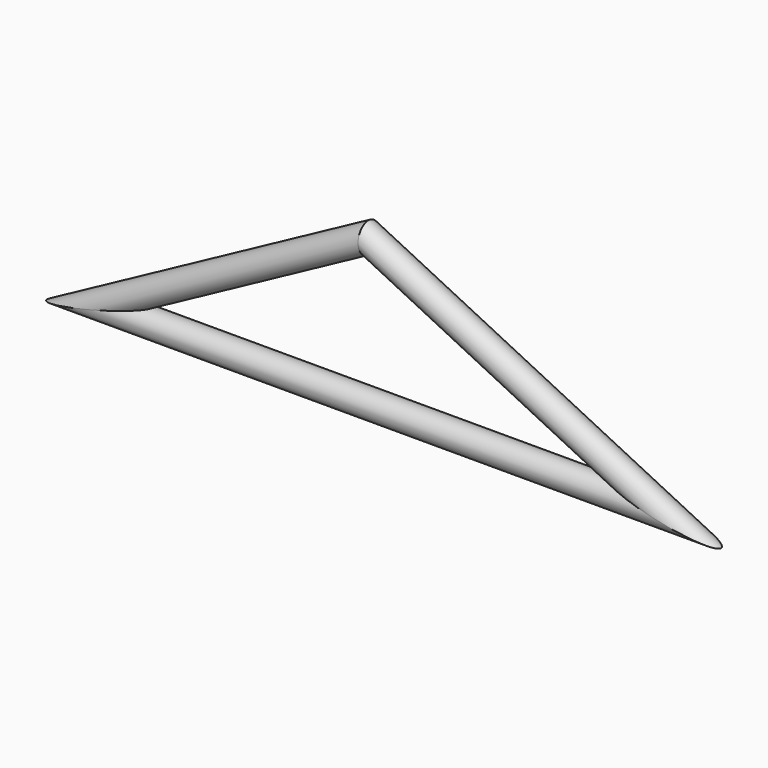
from build123d import *

# Parameters (mm, degrees)
F1_R = 3.4482404655


with BuildPart() as f2:
    # F2: sweep along a path in F0
    with BuildLine(Plane.XZ) as f2_path:
        Line((-69.7594806552, 0), (76.5592679381, 0))
        Line((76.5592679381, 0), (0, 37.7784892917))
        Line((0, 37.7784892917), (-69.7594806552, 0))
    # F1 (on Right) → F2 (sweep)
    with BuildSketch(Plane.YZ):
        Circle(F1_R)
    sweep(path=f2_path.line, transition=Transition.RIGHT)


solid = f2.part
